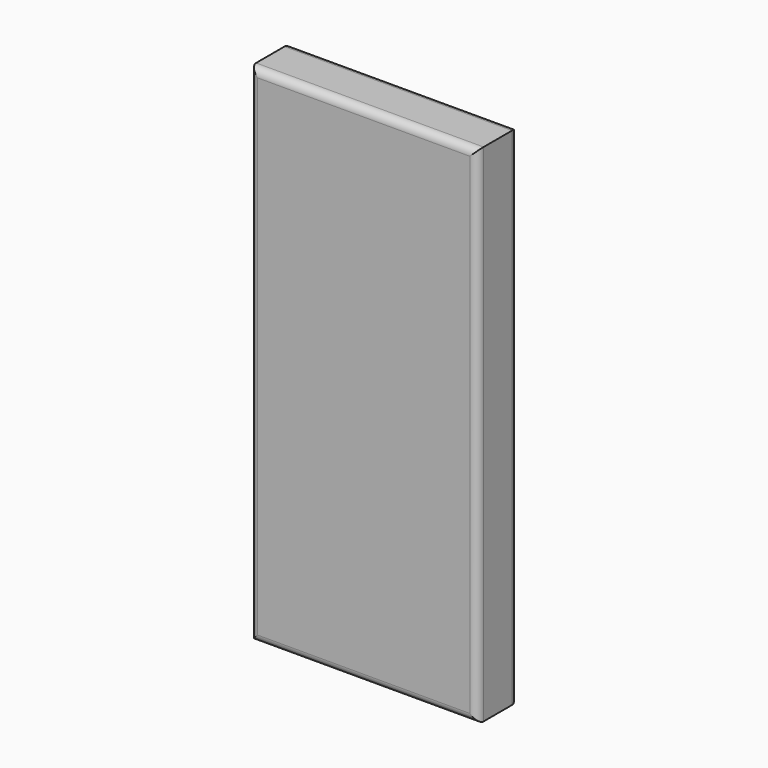
from build123d import *

# Parameters (mm, degrees)
SKETCH_W  = 900
SKETCH_H  = 2000
PAD_DEPTH = 200
FILLET_R  = 30


with BuildPart() as part:
    # Sketch → Pad (new body)
    with BuildSketch(Plane.XZ):
        with Locations((450, 1000)):
            Rectangle(SKETCH_W, SKETCH_H)
    extrude(amount=PAD_DEPTH)

    # Fillet
    fillet_edges = [part.edges().sort_by_distance(p)[0] for p in [
        (450, -200, 2000),
        (900, -200, 1000),
        (450, -200, 0),
        (0, -200, 1000),
        (450, 0, 2000),
        (0, 0, 1000),
        (900, 0, 1000),
        (450, 0, 0),
    ]]
    fillet(fillet_edges, radius=FILLET_R)


solid = part.part
